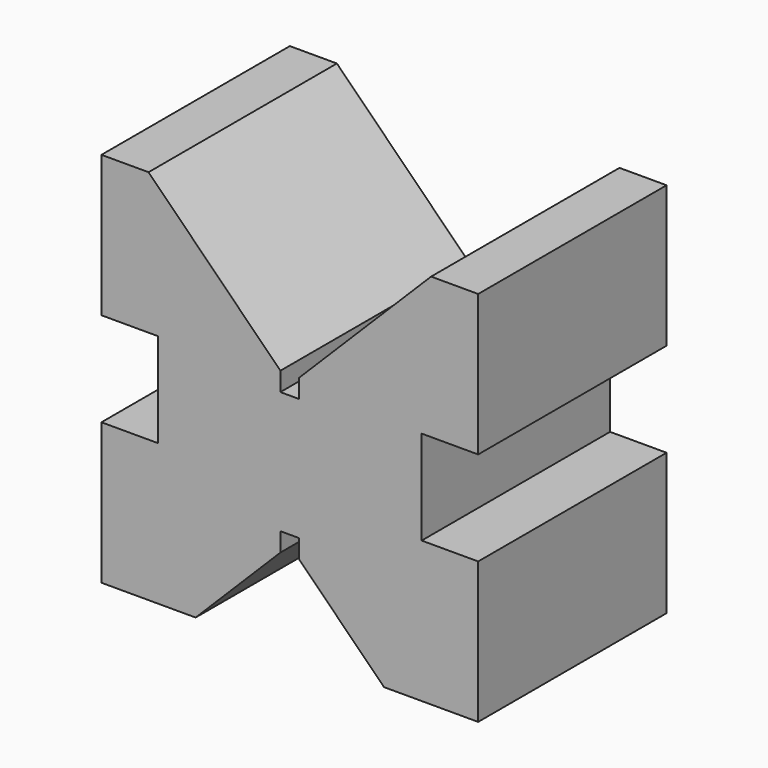
from build123d import *

# Parameters (mm, degrees)
F1_DEPTH = 12.5


with BuildPart() as f1:
    # F0 (on Front) → F1 (new body, symmetric)
    with BuildSketch(Plane.XZ):
        Polygon((0, 15), (0, 0), (10, 0), (19, 9), (19, 11), (21, 11), (21, 9), (30, 0), (40, 0), (40, 15), (34, 15), (34, 25), (40, 25), (40, 40), (35, 40), (21, 26), (21, 24), (19, 24), (19, 26), (5, 40), (0, 40), (0, 25), (6, 25), (6, 15), align=None)
    extrude(amount=F1_DEPTH, both=True)


solid = f1.part
